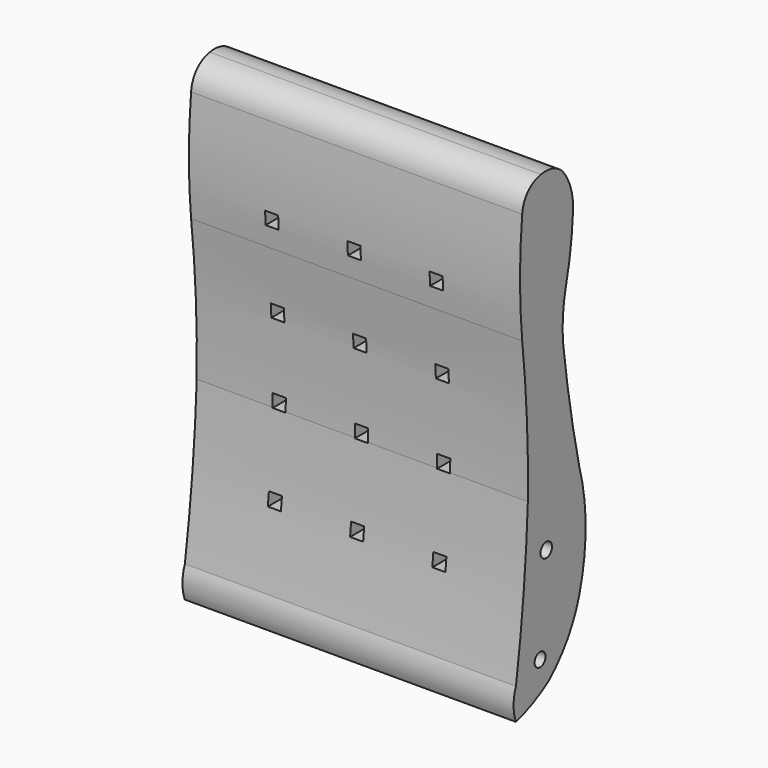
from build123d import *

# Parameters (mm, degrees)
F1_DEPTH  = 120.65
F2_R      = 9.9885996102
F2_R_2    = 10.5258660688
F3_DEPTH  = 482.6
F4_W      = 344.8911011219
F4_H      = 764.6993398666
F4_W_2    = 120.65
F4_H_2    = 673.1
F5_DEPTH  = 482.6
F8_W      = 431.8
F8_H      = 584.2
F9_DEPTH  = 50.8
F10_W     = 19.05
F10_H     = 19.05
F11_DEPTH = 95.25
F10_W_2   = 47.625
F10_H_2   = 22.225
F12_DEPTH = 3.175


with BuildPart() as f1:
    # F0 (on Front) → F1 (new body)
    with BuildSketch(Plane.XZ):
        with BuildLine():
            Line((-241.3, 323.85), (-241.3, -349.25))
            Line((-241.3, -349.25), (241.3, -349.25))
            Line((241.3, -349.25), (241.3, 323.85))
            ThreePointArc((241.3, 323.85), (0, 349.25), (-241.3, 323.85))
        make_face()
    extrude(amount=F1_DEPTH)

    # F4 (on face) → F5 (cut)
    with BuildSketch(Plane.YZ.offset(241.3)):
        with Locations((-53.2562285662, 11.3563537598)):
            Rectangle(F4_W, F4_H)
        with Locations((-60.325, -12.7)):
            Rectangle(F4_W_2, F4_H_2, mode=Mode.SUBTRACT)
        with Locations((-60.325, -12.7)):
            Rectangle(F4_W_2, F4_H_2)
    extrude(amount=-F5_DEPTH, mode=Mode.SUBTRACT)


with BuildPart() as f3:
    # F2 (on face) → F3 (new body)
    with BuildSketch(Plane(origin=(-241.3, 0, 0), x_dir=(0, -1, 0), z_dir=(-1, 0, 0))):
        with BuildLine():
            Line((0, -68.1404843926), (0, -233.649328351))
            ThreePointArc((0, -233.649328351), (21.350852379, -281.1488587038), (55.2847087383, -320.6527531147))
            ThreePointArc((55.2847087383, -320.6527531147), (84.0658754315, -337.5428209275), (115.3160259128, -349.25))
            ThreePointArc((115.3160259128, -349.25), (119.6951401667, -326.4048751593), (115.3160259128, -303.5597503185))
            ThreePointArc((115.3160259128, -303.5597503185), (101.3495716057, -189.7295194826), (93.6318859458, -75.3056555986))
            ThreePointArc((93.6318859458, -75.3056555986), (95.2968862194, 29.9638674769), (103.9162650704, 134.8931342363))
            ThreePointArc((103.9162650704, 134.8931342363), (108.0016932489, 216.2111774087), (103.9162650704, 297.5292205811))
            ThreePointArc((103.9162650704, 297.5292205811), (100.4192959768, 311.8158756468), (91.9625142686, 323.85))
            Line((91.9625142686, 323.85), (31.436908019, 323.85))
            ThreePointArc((31.436908019, 323.85), (31.1849940922, 323.6171736523), (30.9348870069, 323.3824074268))
            ThreePointArc((30.9348870069, 323.3824074268), (15.2328502157, 295.0276660156), (11.4129362628, 262.8414332867))
            ThreePointArc((11.4129362628, 262.8414332867), (15.6896829727, 217.6965972865), (24.1801738739, 173.1515824795))
            ThreePointArc((24.1801738739, 173.1515824795), (29.6284254011, 138.4055637112), (29.6032354236, 103.2349988818))
            ThreePointArc((29.6032354236, 103.2349988818), (16.9934129505, 17.1686486524), (0, -68.1404843926))
        make_face()
        with Locations((71.3824555278, -287.1399223804)):
            Circle(F2_R, mode=Mode.SUBTRACT)
        with Locations((60.1097382605, -151.0620862246)):
            Circle(F2_R_2, mode=Mode.SUBTRACT)
        with BuildLine():
            ThreePointArc((69.983959198, 334.6931636333), (49.4182050819, 333.8654070908), (31.436908019, 323.85))
            Line((31.436908019, 323.85), (91.9625142686, 323.85))
            ThreePointArc((91.9625142686, 323.85), (81.8305714463, 331.0093567724), (69.983959198, 334.6931636333))
        make_face()
        with BuildLine():
            Line((0, -68.1404843926), (0, -233.649328351))
            ThreePointArc((0, -233.649328351), (21.350852379, -281.1488587038), (55.2847087383, -320.6527531147))
            ThreePointArc((55.2847087383, -320.6527531147), (84.0658754315, -337.5428209275), (115.3160259128, -349.25))
            ThreePointArc((115.3160259128, -349.25), (119.6951401667, -326.4048751593), (115.3160259128, -303.5597503185))
            ThreePointArc((115.3160259128, -303.5597503185), (101.3495716057, -189.7295194826), (93.6318859458, -75.3056555986))
            ThreePointArc((93.6318859458, -75.3056555986), (95.2968862194, 29.9638674769), (103.9162650704, 134.8931342363))
            ThreePointArc((103.9162650704, 134.8931342363), (108.0016932489, 216.2111774087), (103.9162650704, 297.5292205811))
            ThreePointArc((103.9162650704, 297.5292205811), (100.4192959768, 311.8158756468), (91.9625142686, 323.85))
            Line((91.9625142686, 323.85), (31.436908019, 323.85))
            ThreePointArc((31.436908019, 323.85), (31.1849940922, 323.6171736523), (30.9348870069, 323.3824074268))
            ThreePointArc((30.9348870069, 323.3824074268), (15.2328502157, 295.0276660156), (11.4129362628, 262.8414332867))
            ThreePointArc((11.4129362628, 262.8414332867), (15.6896829727, 217.6965972865), (24.1801738739, 173.1515824795))
            ThreePointArc((24.1801738739, 173.1515824795), (29.6284254011, 138.4055637112), (29.6032354236, 103.2349988818))
            ThreePointArc((29.6032354236, 103.2349988818), (16.9934129505, 17.1686486524), (0, -68.1404843926))
        make_face()
        with Locations((71.3824555278, -287.1399223804)):
            Circle(F2_R, mode=Mode.SUBTRACT)
        with Locations((60.1097382605, -151.0620862246)):
            Circle(F2_R_2, mode=Mode.SUBTRACT)
        with BuildLine():
            ThreePointArc((0, -68.1404843926), (-11.673043687, -150.8949063718), (0, -233.649328351))
            Line((0, -233.649328351), (0, -68.1404843926))
        make_face()
    extrude(amount=F3_DEPTH)

    # F8 (on plane+point) → F9 (cut)
    with BuildSketch(Plane.XZ.offset(-11.673043687)):
        with Locations((-483.9325845242, 4.38026824)):
            Rectangle(F8_W, F8_H)
    extrude(amount=F9_DEPTH, mode=Mode.SUBTRACT)

    # F10 (on face) → F11 (cut)
    with BuildSketch(Plane(origin=(0, -39.126956313, 0), x_dir=(-1, 0, 0), z_dir=(0, 1, 0))):
        with Locations((364.0763345242, 173.05214324)):
            Rectangle(F10_W, F10_H)
        with Locations((483.9325845242, 173.05214324)):
            Rectangle(F10_W, F10_H)
        with Locations((603.7888345242, 173.05214324)):
            Rectangle(F10_W, F10_H)
        with Locations((364.0763345242, 50.02089324)):
            Rectangle(F10_W, F10_H)
        with Locations((483.9325845242, 50.02089324)):
            Rectangle(F10_W, F10_H)
        with Locations((603.7888345242, 50.02089324)):
            Rectangle(F10_W, F10_H)
        with Locations((603.7888345242, -66.66035676)):
            Rectangle(F10_W, F10_H)
        with Locations((483.9325845242, -66.66035676)):
            Rectangle(F10_W, F10_H)
        with Locations((364.0763345242, -66.66035676)):
            Rectangle(F10_W, F10_H)
        with Locations((364.0763345242, -189.69160676)):
            Rectangle(F10_W, F10_H)
        with Locations((483.9325845242, -189.69160676)):
            Rectangle(F10_W, F10_H)
        with Locations((603.7888345242, -189.69160676)):
            Rectangle(F10_W, F10_H)
    extrude(amount=-F11_DEPTH, mode=Mode.SUBTRACT)

    # F10 (on face) → F12 (cut)
    with BuildSketch(Plane(origin=(0, -39.126956313, 0), x_dir=(-1, 0, 0), z_dir=(0, 1, 0))):
        with Locations((364.0763345242, 111.53651824)):
            Rectangle(F10_W_2, F10_H_2)
        with Locations((483.9325845242, 111.53651824)):
            Rectangle(F10_W_2, F10_H_2)
        with Locations((603.7888345242, 111.53651824)):
            Rectangle(F10_W_2, F10_H_2)
        with Locations((364.0763345242, -8.31973176)):
            Rectangle(F10_W_2, F10_H_2)
        with Locations((483.9325845242, -8.31973176)):
            Rectangle(F10_W_2, F10_H_2)
        with Locations((603.7888345242, -8.31973176)):
            Rectangle(F10_W_2, F10_H_2)
        with Locations((603.7888345242, -128.17598176)):
            Rectangle(F10_W_2, F10_H_2)
        with Locations((483.9325845242, -128.17598176)):
            Rectangle(F10_W_2, F10_H_2)
        with Locations((364.0763345242, -128.17598176)):
            Rectangle(F10_W_2, F10_H_2)
    extrude(amount=-F12_DEPTH, mode=Mode.SUBTRACT)


solid = f3.part
